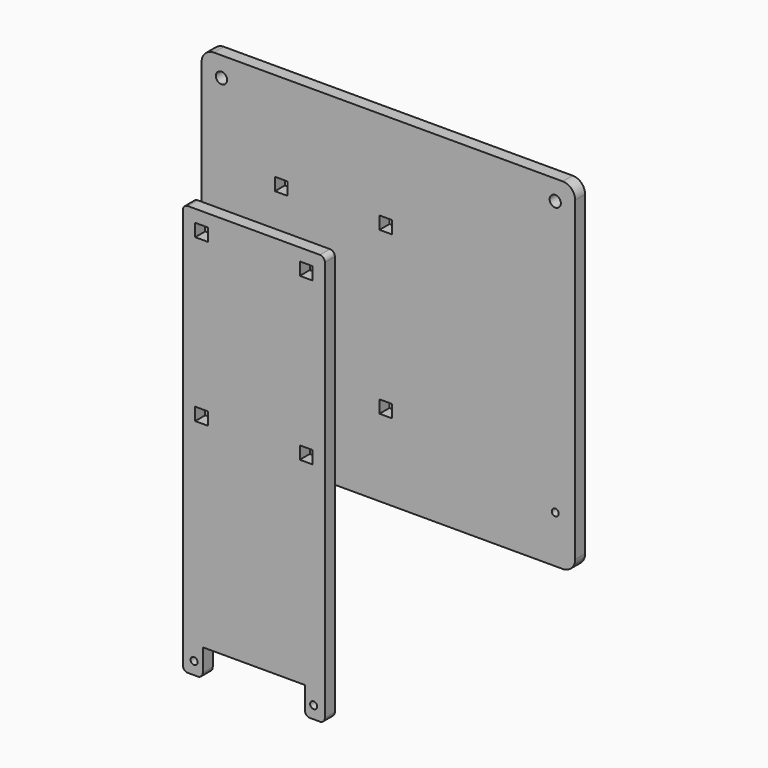
from build123d import *

# Parameters (mm, degrees)
F2_R     = 1.4
F2_W     = 5.1
F2_H     = 5.1
F3_DEPTH = 5
F0_R     = 1.4
F0_W     = 5.1
F0_H     = 5.1
F0_R_2   = 2.25
F4_DEPTH = 5


with BuildPart() as f3:
    # F2 (on offset) → F3 (new body)
    with BuildSketch(Plane.XZ.offset(35)):
        with BuildLine():
            ThreePointArc((-28.5, 2), (-27.914214, 0.585786), (-26.5, 0))
            Line((-26.5, 0), (-22.5, 0))
            ThreePointArc((-22.5, 0), (-21.085786, 0.585786), (-20.5, 2))
            Line((-20.5, 2), (-20.5, 11))
            Line((-20.5, 11), (20.5, 11))
            Line((20.5, 11), (20.5, 2))
            ThreePointArc((20.5, 2), (21.085786, 0.585786), (22.5, 0))
            Line((22.5, 0), (26.5, 0))
            ThreePointArc((26.5, 0), (27.914214, 0.585786), (28.5, 2))
            Line((28.5, 2), (28.5, 163))
            ThreePointArc((28.5, 163), (27.914214, 164.414214), (26.5, 165))
            Line((26.5, 165), (-26.5, 165))
            ThreePointArc((-26.5, 165), (-27.914214, 164.414214), (-28.5, 163))
            Line((-28.5, 163), (-28.5, 2))
        make_face()
        with Locations((-24, 5)):
            Circle(F2_R, mode=Mode.SUBTRACT)
        with Locations((24, 5)):
            Circle(F2_R, mode=Mode.SUBTRACT)
        with Locations((-21, 92.5)):
            Rectangle(F2_W, F2_H, mode=Mode.SUBTRACT)
        with Locations((-21, 157.5)):
            Rectangle(F2_W, F2_H, mode=Mode.SUBTRACT)
        with Locations((21, 92.5)):
            Rectangle(F2_W, F2_H, mode=Mode.SUBTRACT)
        with Locations((21, 157.5)):
            Rectangle(F2_W, F2_H, mode=Mode.SUBTRACT)
    extrude(amount=F3_DEPTH)


with BuildPart() as f4:
    # F0 (on Front) → F4 (new body)
    with BuildSketch(Plane.XZ):
        with BuildLine():
            Line((-53, 191), (-53, 64))
            ThreePointArc((-53, 64), (-51.535534, 60.464466), (-48, 59))
            Line((-48, 59), (92, 59))
            ThreePointArc((92, 59), (95.535534, 60.464466), (97, 64))
            Line((97, 64), (97, 191))
            ThreePointArc((97, 191), (95.535534, 194.535534), (92, 196))
            Line((92, 196), (-48, 196))
            ThreePointArc((-48, 196), (-51.535534, 194.535534), (-53, 191))
        make_face()
        with Locations((-45, 67)):
            Circle(F0_R, mode=Mode.SUBTRACT)
        with Locations((-21, 92.5)):
            Rectangle(F0_W, F0_H, mode=Mode.SUBTRACT)
        with Locations((21, 92.5)):
            Rectangle(F0_W, F0_H, mode=Mode.SUBTRACT)
        with Locations((89, 78)):
            Circle(F0_R, mode=Mode.SUBTRACT)
        with Locations((-21, 157.5)):
            Rectangle(F0_W, F0_H, mode=Mode.SUBTRACT)
        with Locations((21, 157.5)):
            Rectangle(F0_W, F0_H, mode=Mode.SUBTRACT)
        with Locations((-45, 188)):
            Circle(F0_R_2, mode=Mode.SUBTRACT)
        with Locations((89, 188)):
            Circle(F0_R_2, mode=Mode.SUBTRACT)
    extrude(amount=-F4_DEPTH)


solid = Compound([f3.part, f4.part])
